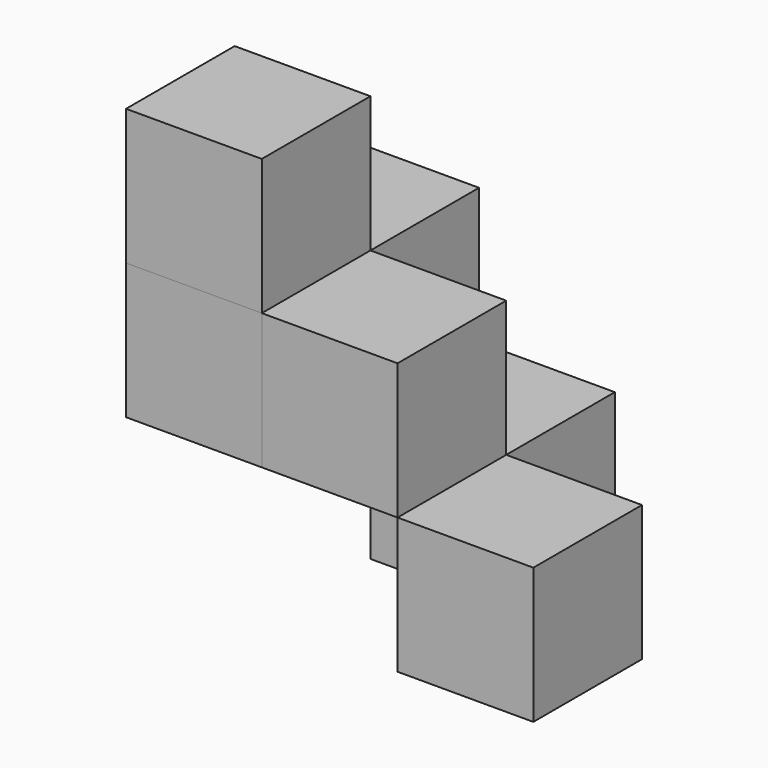
from build123d import *

# Parameters (mm, degrees)
BOX_W        = 10
BOX_H        = 10
BOX_DEPTH    = 10
BOX001_W     = 10
BOX001_H     = 10
BOX001_DEPTH = 10
BOX002_W     = 10
BOX002_H     = 10
BOX002_DEPTH = 10
BOX003_W     = 10
BOX003_H     = 10
BOX003_DEPTH = 10
BOX004_W     = 10
BOX004_H     = 10
BOX004_DEPTH = 10
BOX005_W     = 10
BOX005_H     = 10
BOX005_DEPTH = 10


with BuildPart() as box:
    # Box → Box (new body)
    with BuildSketch(Plane.XY.offset(10)):
        with Locations((5, 5)):
            Rectangle(BOX_W, BOX_H)
    extrude(amount=BOX_DEPTH)


with BuildPart() as box001:
    # Box001 → Box001 (new body)
    with BuildSketch(Plane(origin=(0, 10, 0), x_dir=(1, 0, 0), z_dir=(0, 0, 1))):
        with Locations((5, 5)):
            Rectangle(BOX001_W, BOX001_H)
    extrude(amount=BOX001_DEPTH)


with BuildPart() as box002:
    # Box002 → Box002 (new body)
    with BuildSketch(Plane(origin=(10, 0, 0), x_dir=(1, 0, 0), z_dir=(0, 0, 1))):
        with Locations((5, 5)):
            Rectangle(BOX002_W, BOX002_H)
    extrude(amount=BOX002_DEPTH)


with BuildPart() as box003:
    # Box003 → Box003 (new body)
    with BuildSketch(Plane(origin=(20, 0, -10), x_dir=(1, 0, 0), z_dir=(0, 0, 1))):
        with Locations((5, 5)):
            Rectangle(BOX003_W, BOX003_H)
    extrude(amount=BOX003_DEPTH)


with BuildPart() as box004:
    # Box004 → Box004 (new body)
    with BuildSketch(Plane(origin=(10, 10, -10), x_dir=(1, 0, 0), z_dir=(0, 0, 1))):
        with Locations((5, 5)):
            Rectangle(BOX004_W, BOX004_H)
    extrude(amount=BOX004_DEPTH)


with BuildPart() as box005:
    # Box005 → Box005 (new body)
    with BuildSketch(Plane.XY):
        with Locations((5, 5)):
            Rectangle(BOX005_W, BOX005_H)
    extrude(amount=BOX005_DEPTH)


solid = Compound([box.part, box001.part, box002.part, box003.part, box004.part, box005.part])
